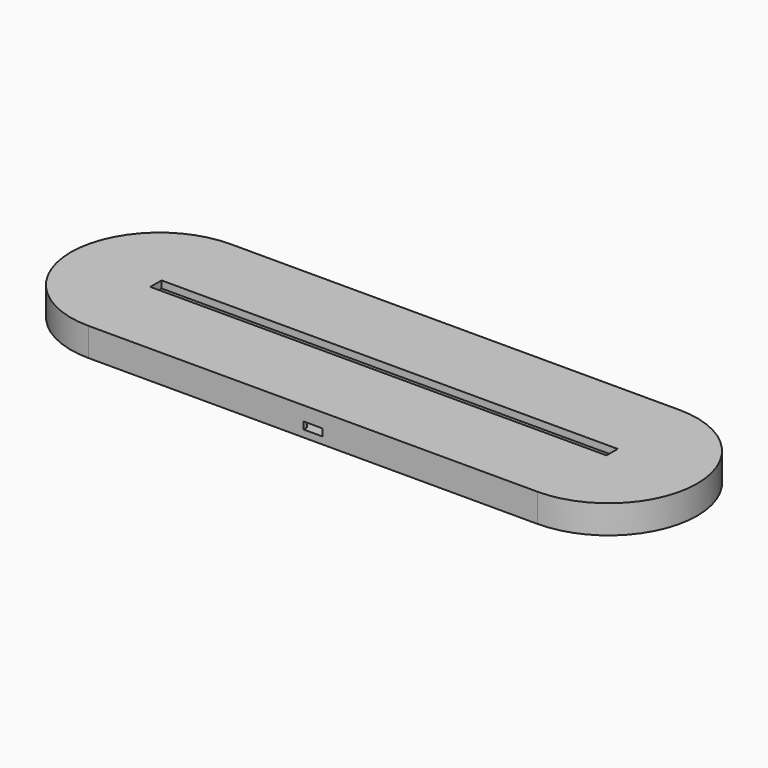
from build123d import *

# Parameters (mm, degrees)
PAD_DEPTH       = 6
POCKET_DEPTH    = 3
SKETCH002_W     = 18.4
SKETCH002_H     = 20.85
POCKET001_DEPTH = 3
SKETCH003_W     = 8
SKETCH003_H     = 1.65
POCKET002_DEPTH = 3
PAD001_DEPTH    = 3
SKETCH005_W     = 193
SKETCH005_H     = 5.95
PAD002_DEPTH    = 3


with BuildPart() as part:
    # Sketch → Pad (new body)
    with BuildSketch(Plane.XY):
        with BuildLine():
            ThreePointArc((-95, 37.5), (-132.5, 0), (-95, -37.5))
            Line((-95, -37.5), (95, -37.5))
            ThreePointArc((95, -37.5), (132.5, 0), (95, 37.5))
            Line((-95, 37.5), (95, 37.5))
        make_face()
    extrude(amount=PAD_DEPTH)

    # Sketch001 (on Face6 of Pad) → Pocket (cut)
    with BuildSketch(Plane.XY.offset(6)):
        with BuildLine():
            ThreePointArc((-98.5, 6), (-104.5, 0), (-98.5, -6))
            Line((-98.5, -6), (98.5, -6))
            ThreePointArc((98.5, -6), (104.5, 0), (98.5, 6))
            Line((-98.5, 6), (98.5, 6))
        make_face()
    extrude(amount=-POCKET_DEPTH, mode=Mode.SUBTRACT)

    # Sketch002 (on Face5 of Pocket) → Pocket001 (cut)
    with BuildSketch(Plane.XY.offset(6)):
        with Locations((0, -25.425)):
            Rectangle(SKETCH002_W, SKETCH002_H)
    extrude(amount=-POCKET001_DEPTH, mode=Mode.SUBTRACT)

    # Sketch003 (on Face5 of Pocket001) → Pocket002 (cut)
    with BuildSketch(Plane.XY.offset(6)):
        with Locations((0, -36.675)):
            Rectangle(SKETCH003_W, SKETCH003_H)
    extrude(amount=-POCKET002_DEPTH, mode=Mode.SUBTRACT)

    # Sketch004 (on Face5 of Pocket002) → Pad001 (join)
    with BuildSketch(Plane.XY.offset(6)):
        with BuildLine():
            ThreePointArc((-95, 37.5), (-132.5, 0), (-95, -37.5))
            Line((-95, -37.5), (95, -37.5))
            ThreePointArc((95, -37.5), (132.5, 0), (95, 37.5))
            Line((-95, 37.5), (95, 37.5))
        make_face()
        with BuildLine():
            ThreePointArc((-98.5, 6), (-104.5, 0), (-98.5, -6))
            Line((-98.5, -6), (98.5, -6))
            ThreePointArc((98.5, -6), (104.5, 0), (98.5, 6))
            Line((-98.5, 6), (98.5, 6))
        make_face(mode=Mode.SUBTRACT)
    extrude(amount=PAD001_DEPTH)

    # Sketch005 (on Face12 of Pad001) → Pad002 (join)
    with BuildSketch(Plane.XY.offset(9)):
        with BuildLine():
            ThreePointArc((-95, 37.5), (-132.5, 0), (-95, -37.5))
            Line((-95, -37.5), (95, -37.5))
            ThreePointArc((95, -37.5), (132.5, 0), (95, 37.5))
            Line((-95, 37.5), (95, 37.5))
        make_face()
        Rectangle(SKETCH005_W, SKETCH005_H, mode=Mode.SUBTRACT)
    extrude(amount=PAD002_DEPTH)


solid = part.part
